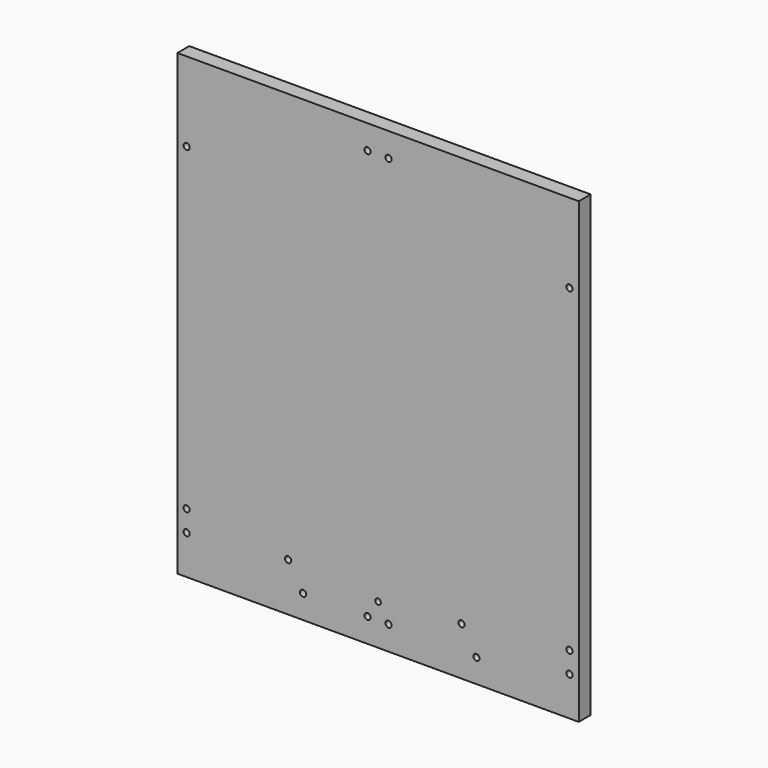
from build123d import *

# Parameters (mm, degrees)
SKETCH_W        = 324
SKETCH_H        = 370
PAD_DEPTH       = 12
SKETCH001_R     = 2.5
POCKET_DEPTH    = 12.001
SKETCH002_R     = 2.5
SKETCH002_R_2   = 2.25
POCKET001_DEPTH = 12.001


with BuildPart() as part:
    # Sketch → Pad (new body)
    with BuildSketch(Plane.XZ):
        with Locations((0, 185)):
            Rectangle(SKETCH_W, SKETCH_H)
    extrude(amount=PAD_DEPTH)

    # Sketch001 → Pocket (cut, through all)
    with BuildSketch(Plane.XZ.offset(12)):
        with Locations((-154.5, 31.525)):
            Circle(SKETCH001_R)
        with Locations((-154.5, 48.475)):
            Circle(SKETCH001_R)
        with Locations((-154.5, 306)):
            Circle(SKETCH001_R)
        with Locations((-8.475, 350.5)):
            Circle(SKETCH001_R)
        with Locations((8.475, 350.5)):
            Circle(SKETCH001_R)
        with Locations((154.5, 306)):
            Circle(SKETCH001_R)
        with Locations((154.5, 48.475)):
            Circle(SKETCH001_R)
        with Locations((154.5, 31.525)):
            Circle(SKETCH001_R)
        with Locations((8.475, 19.5)):
            Circle(SKETCH001_R)
        with Locations((-8.475, 19.5)):
            Circle(SKETCH001_R)
    extrude(amount=-POCKET_DEPTH, mode=Mode.SUBTRACT)

    # Sketch002 → Pocket001 (cut, through all)
    with BuildSketch(Plane(origin=(0, 0, 0), x_dir=(1, 0, 0), z_dir=(0, 1, 0))):
        with Locations((-72.55, -39)):
            Circle(SKETCH002_R)
        with Locations((-60.55, -19)):
            Circle(SKETCH002_R)
        with Locations((79.45, -19)):
            Circle(SKETCH002_R)
        with Locations((67.45, -39)):
            Circle(SKETCH002_R)
        with Locations((0, -32.85)):
            Circle(SKETCH002_R_2)
    extrude(amount=-POCKET001_DEPTH, mode=Mode.SUBTRACT)


solid = part.part
